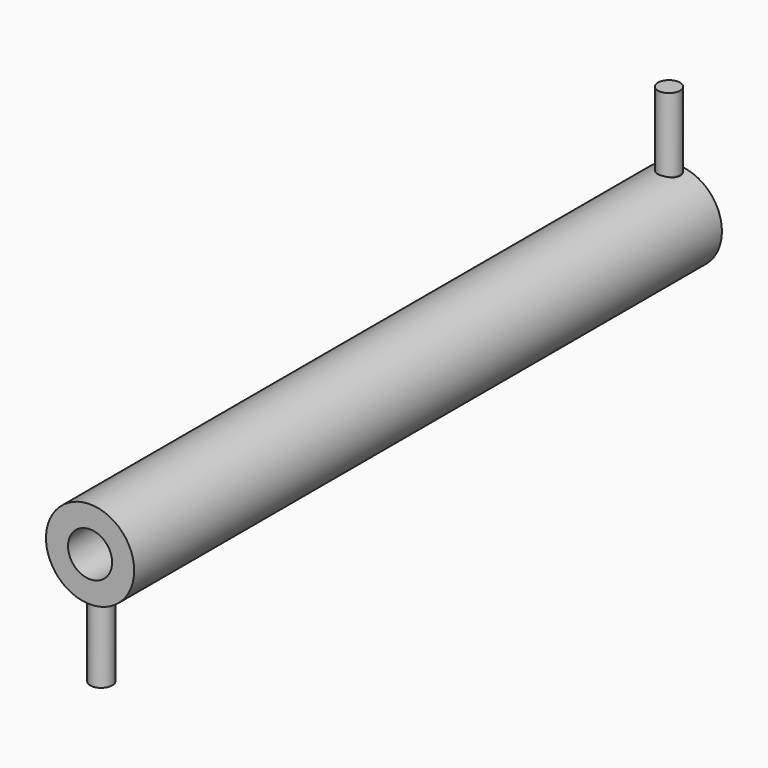
from build123d import *

# Parameters (mm, degrees)
F0_R          = 60
F0_R_2        = 30
F1_DEPTH      = 1000
F3_R          = 15
F4_DEPTH      = 100
F4_DEPTH_BACK = 7
F6_R          = 15
F7_DEPTH      = 100
F7_DEPTH_BACK = 7


with BuildPart() as f1:
    # F0 (on Front) → F1 (new body)
    with BuildSketch(Plane.XZ):
        Circle(F0_R)
        Circle(F0_R_2, mode=Mode.SUBTRACT)
    extrude(amount=F1_DEPTH)

    # F3 (on offset) → F4 (join, two sides)
    with BuildSketch(Plane.XY.offset(60)) as f4_sk:
        with Locations((0, -15)):
            Circle(F3_R)
    extrude(amount=F4_DEPTH)
    extrude(f4_sk.sketch, amount=-F4_DEPTH_BACK)

    # F6 (on offset) → F7 (join, two sides)
    with BuildSketch(Plane.XY.offset(-60)) as f7_sk:
        with Locations((0, -980.9999256134)):
            Circle(F6_R)
    extrude(amount=-F7_DEPTH)
    extrude(f7_sk.sketch, amount=F7_DEPTH_BACK)


solid = f1.part
